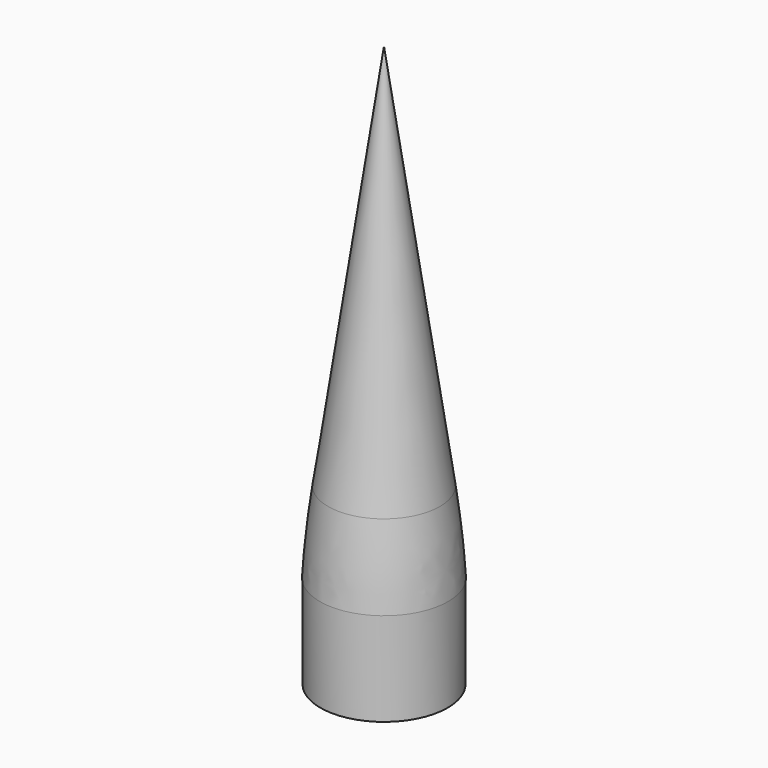
from build123d import *

# Parameters (mm, degrees)
F2_R     = 15.24
F3_DEPTH = 25.4
F4_R     = 17.78
F4_R_2   = 17.272
F5_DEPTH = 25.4


with BuildPart() as f1:
    # F0 (on Front) → F1 (revolve)
    with BuildSketch(Plane.XZ):
        with BuildLine():
            Line((0, 0), (17.78, 0))
            Line((17.78, 0), (17.78, 11.070003))
            ThreePointArc((17.78, 11.070003), (17.126763, 29.27488), (15.170413, 47.38612))
            Line((15.170413, 47.38612), (0, 152.4))
            Line((0, 152.4), (0, 0))
        make_face()
    revolve(axis=Axis((0, 0, 88.9), (0, 0, 1)))

    # F2 (on face) → F3 (cut)
    with BuildSketch(Plane(origin=(0, 0, 0), x_dir=(1, 0, 0), z_dir=(0, 0, -1))):
        Circle(F2_R)
    extrude(amount=-F3_DEPTH, mode=Mode.SUBTRACT)

    # F4 (on face) → F5 (cut)
    with BuildSketch(Plane(origin=(0, 0, 25.4), x_dir=(1, 0, 0), z_dir=(0, 0, -1))):
        Circle(F4_R)
        Circle(F4_R_2, mode=Mode.SUBTRACT)
    extrude(amount=F5_DEPTH, mode=Mode.SUBTRACT)


solid = f1.part
